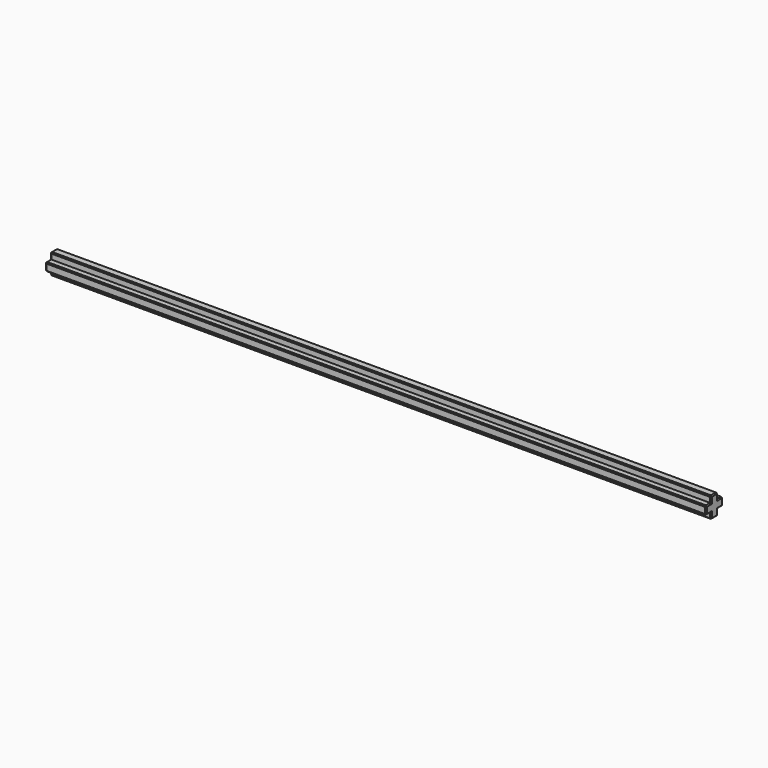
from build123d import *

# Parameters (mm, degrees)
F0_W     = 1.2
F0_H     = 1.6
F0_W_2   = 1.6
F0_H_2   = 1.2
F1_DEPTH = 127
F2_SIZE  = 0.2


with BuildPart() as f1:
    # F0 (on Right) → F1 (new body)
    with BuildSketch(Plane.YZ):
        with Locations((-1.4, 0)):
            Rectangle(F0_W, F0_H)
        Rectangle(F0_W_2, F0_H)
        with Locations((0, -1.4)):
            Rectangle(F0_W_2, F0_H_2)
        with Locations((1.4, 0)):
            Rectangle(F0_W, F0_H)
        with Locations((0, 1.4)):
            Rectangle(F0_W_2, F0_H_2)
    extrude(amount=F1_DEPTH)

    # F2
    f2_edges = [f1.edges().sort_by_distance(p)[0] for p in [
        (63.5, -2, -0.8),
        (63.5, -2, 0.8),
        (63.5, -0.8, 2),
        (63.5, -0.8, -2),
        (63.5, 0.8, -2),
        (63.5, 2, -0.8),
        (63.5, 2, 0.8),
        (63.5, 0.8, 2),
        (127, -1.4, -0.8),
        (127, -0.8, -1.4),
        (127, 0, -2),
        (127, 0.8, -1.4),
        (127, 1.4, -0.8),
        (127, 2, 0),
        (127, 1.4, 0.8),
        (127, 0, 2),
        (127, -0.8, 1.4),
        (127, 0.8, 1.4),
        (127, -2, 0),
        (0, -2, 0),
        (0, -1.4, 0.8),
        (0, -0.8, 1.4),
        (0, 0, 2),
        (0, -0.8, -1.4),
        (0, 0, -2),
        (0, 0.8, -1.4),
        (0, 1.4, -0.8),
        (0, 2, 0),
        (0, 1.4, 0.8),
        (0, 0.8, 1.4),
        (127, -1.4, 0.8),
        (0, -1.4, -0.8),
    ]]
    chamfer(f2_edges, length=F2_SIZE)


solid = f1.part
